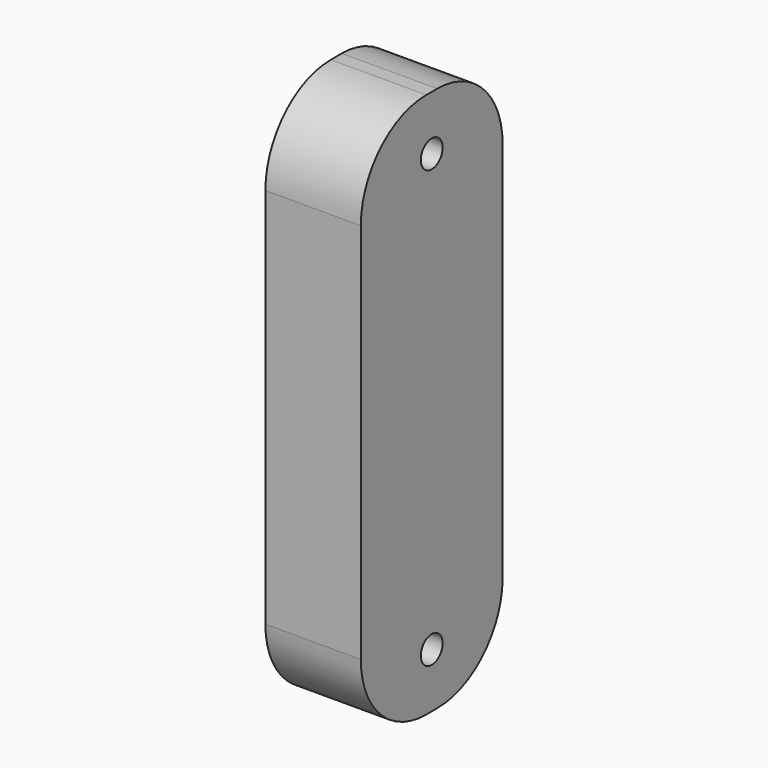
from build123d import *

# Parameters (mm, degrees)
F0_W     = 7
F0_H     = 13
F1_DEPTH = 40
F2_R     = 6
F5_D     = 2


with BuildPart() as f1:
    # F0 (on Top) → F1 (new body)
    with BuildSketch(Plane.XY):
        Rectangle(F0_W, F0_H)
    extrude(amount=F1_DEPTH)

    # F2
    f2_edges = [f1.edges().sort_by_distance(p)[0] for p in [
        (0, 6.5, 40),
        (0, -6.5, 40),
        (0, 6.5, 0),
        (0, -6.5, 0),
    ]]
    fillet(f2_edges, radius=F2_R)

    # F5 (through all)
    with Locations(Plane(origin=(-3.5, 0, 0), x_dir=(0, -1, 0), z_dir=(-1, 0, 0))):
        with Locations((0, 4), (0, 36)):
            Hole(F5_D / 2)


solid = f1.part
